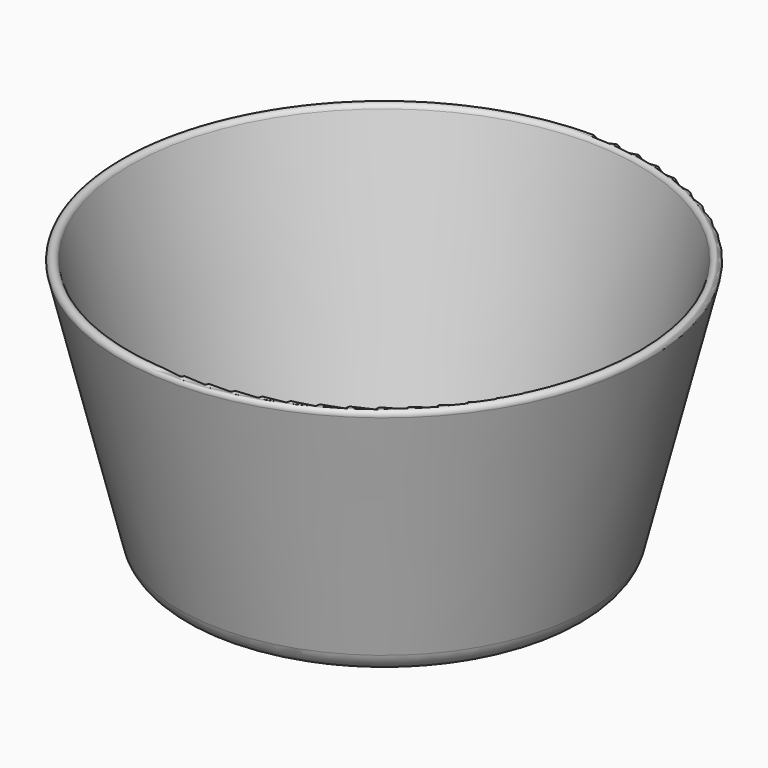
from build123d import *


with BuildPart() as f1:
    # F0 (on Front) → F1 (revolve)
    with BuildSketch(Plane.XZ):
        with BuildLine():
            Line((0, 3), (0, 0))
            Line((0, 0), (53.732758, 0))
            ThreePointArc((53.732758, 0), (58.666334, 1.702396), (61.500186, 6.085045))
            Line((61.500186, 6.085045), (79.264601, 78.140946))
            ThreePointArc((79.264601, 78.140946), (78.167262, 79.956393), (76.351815, 78.859054))
            Line((76.351815, 78.859054), (58.5874, 6.803153))
            ThreePointArc((58.5874, 6.803153), (56.816243, 4.063997), (53.732758, 3))
            Line((53.732758, 3), (0, 3))
        make_face()
    revolve(axis=Axis((0, 0, 1.5), (0, 0, -1)))


solid = f1.part
